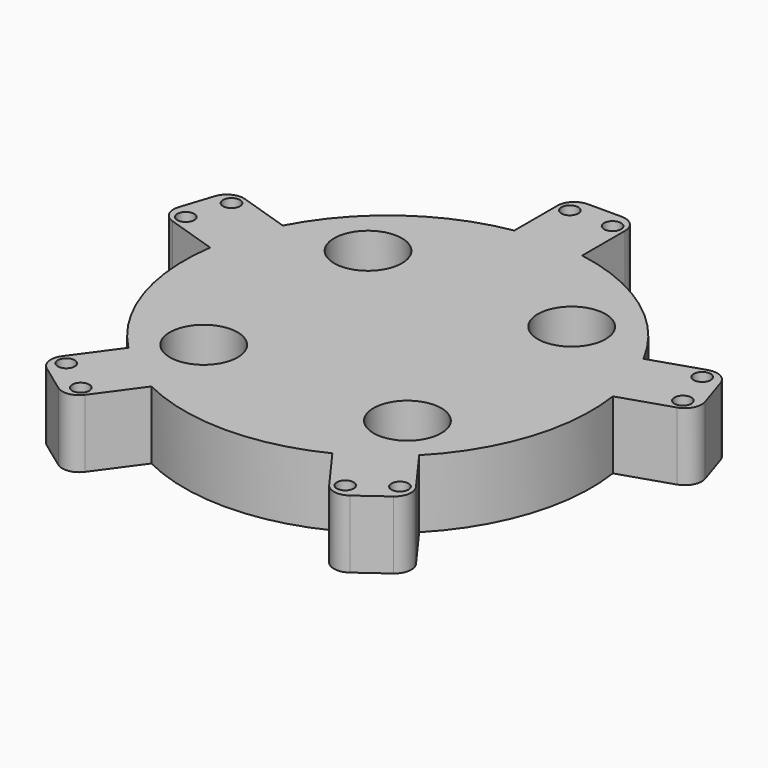
from build123d import *

# Parameters (mm, degrees)
F0_R     = 1.5875
F1_DEPTH = 12.7
F2_R     = 6.35
F3_DEPTH = 254


with BuildPart() as f1:
    # F0 (on Top) → F1 (new body)
    with BuildSketch(Plane.XY):
        with BuildLine():
            Line((-6.35, 47.625), (-6.35, 37.567107))
            ThreePointArc((-6.35, 37.567107), (-22.394618, 30.823547), (-33.766184, 17.648083))
            Line((-33.766184, 17.648083), (-43.331809, 20.756143))
            ThreePointArc((-43.331809, 20.756143), (-45.754358, 20.565485), (-47.332542, 18.717668))
            Line((-47.332542, 18.717668), (-49.2948, 12.678459))
            ThreePointArc((-49.2948, 12.678459), (-49.104141, 10.25591), (-47.256325, 8.677726))
            Line((-47.256325, 8.677726), (-37.690699, 5.569665))
            ThreePointArc((-37.690699, 5.569665), (-36.235253, -11.773547), (-27.218649, -26.659991))
            Line((-27.218649, -26.659991), (-33.130531, -34.796998))
            ThreePointArc((-33.130531, -34.796998), (-33.697812, -37.159896), (-32.42812, -39.231845))
            Line((-32.42812, -39.231845), (-27.290862, -42.964282))
            ThreePointArc((-27.290862, -42.964282), (-24.927964, -43.531563), (-22.856015, -42.261871))
            Line((-22.856015, -42.261871), (-16.944133, -34.124864))
            ThreePointArc((-16.944133, -34.124864), (0, -38.1), (16.944133, -34.124864))
            Line((16.944133, -34.124864), (22.856015, -42.261871))
            ThreePointArc((22.856015, -42.261871), (24.927964, -43.531563), (27.290862, -42.964282))
            Line((27.290862, -42.964282), (32.42812, -39.231845))
            ThreePointArc((32.42812, -39.231845), (33.697812, -37.159896), (33.130531, -34.796998))
            Line((33.130531, -34.796998), (27.218649, -26.659991))
            ThreePointArc((27.218649, -26.659991), (36.235253, -11.773547), (37.690699, 5.569665))
            Line((37.690699, 5.569665), (47.256325, 8.677726))
            ThreePointArc((47.256325, 8.677726), (49.104141, 10.25591), (49.2948, 12.678459))
            Line((49.2948, 12.678459), (47.332542, 18.717668))
            ThreePointArc((47.332542, 18.717668), (45.754358, 20.565485), (43.331809, 20.756143))
            Line((43.331809, 20.756143), (33.766184, 17.648083))
            ThreePointArc((33.766184, 17.648083), (22.394618, 30.823547), (6.35, 37.567107))
            Line((6.35, 37.567107), (6.35, 47.625))
            ThreePointArc((6.35, 47.625), (5.420064, 49.870064), (3.175, 50.8))
            Line((3.175, 50.8), (-3.175, 50.8))
            ThreePointArc((-3.175, 50.8), (-5.420064, 49.870064), (-6.35, 47.625))
        make_face()
        with Locations((-24.758359, -40.879737)):
            Circle(F0_R, mode=Mode.SUBTRACT)
        with Locations((-31.228186, -36.179132)):
            Circle(F0_R, mode=Mode.SUBTRACT)
        with Locations((24.758359, -40.879737)):
            Circle(F0_R, mode=Mode.SUBTRACT)
        with Locations((31.228186, -36.179132)):
            Circle(F0_R, mode=Mode.SUBTRACT)
        with Locations((-46.529694, 10.914066)):
            Circle(F0_R, mode=Mode.SUBTRACT)
        with Locations((-44.05844, 18.519803)):
            Circle(F0_R, mode=Mode.SUBTRACT)
        with Locations((-3.998573, 47.625)):
            Circle(F0_R, mode=Mode.SUBTRACT)
        with Locations((46.529694, 10.914066)):
            Circle(F0_R, mode=Mode.SUBTRACT)
        with Locations((44.05844, 18.519803)):
            Circle(F0_R, mode=Mode.SUBTRACT)
        with Locations((3.998573, 47.625)):
            Circle(F0_R, mode=Mode.SUBTRACT)
    extrude(amount=F1_DEPTH)

    # F2 (on face) → F3 (cut)
    with BuildSketch(Plane.XY.offset(12.7)):
        with Locations((-19.05, 19.202113)):
            Circle(F2_R)
        with Locations((-19.202113, -19.05)):
            Circle(F2_R)
        with Locations((19.05, -19.202113)):
            Circle(F2_R)
        with Locations((19.202113, 19.05)):
            Circle(F2_R)
    extrude(amount=-F3_DEPTH, mode=Mode.SUBTRACT)


solid = f1.part
